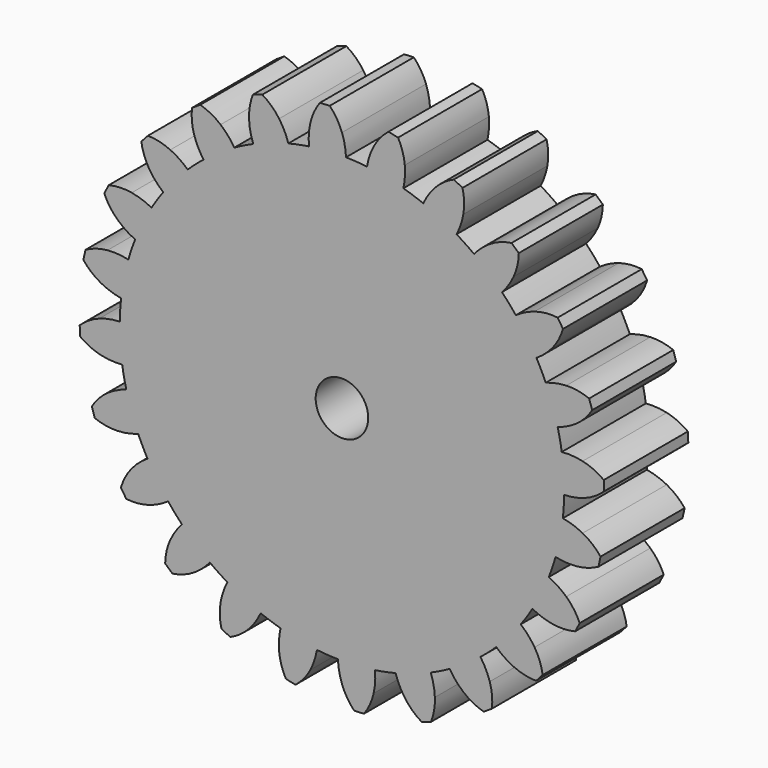
from build123d import *

# Parameters (mm, degrees)
F0_R     = 6.35
F1_DEPTH = 25.4


with BuildPart() as f1:
    # F0 (on Front) → F1 (new body)
    with BuildSketch(Plane.XZ):
        with BuildLine():
            ThreePointArc((53.712184, -0.973198), (53.718796, -0.486619), (53.721, 0))
            ThreePointArc((53.721, 0), (53.571954, 3.998954), (53.125641, 7.975719))
            ThreePointArc((53.125641, 7.975719), (52.688766, 10.480447), (52.133868, 12.961699))
            ThreePointArc((52.133868, 12.961699), (50.870033, 17.26805), (49.251161, 21.45388))
            ThreePointArc((49.251161, 21.45388), (48.180901, 23.760191), (47.002715, 26.013278))
            ThreePointArc((47.002715, 26.013278), (44.667379, 29.845788), (42.020295, 33.469996))
            ThreePointArc((42.020295, 33.469996), (40.389586, 35.420717), (38.668404, 37.292095))
            ThreePointArc((38.668404, 37.292095), (35.420717, 40.389586), (31.925816, 43.205186))
            ThreePointArc((31.925816, 43.205186), (29.845788, 44.667379), (27.698906, 46.029517))
            ThreePointArc((27.698906, 46.029517), (23.760191, 48.180901), (19.655645, 49.996014))
            ThreePointArc((19.655645, 49.996014), (17.26805, 50.870033), (14.841773, 51.630104))
            ThreePointArc((14.841773, 51.630104), (10.480447, 52.688766), (6.045975, 53.379697))
            ThreePointArc((6.045975, 53.379697), (3.513522, 53.605979), (0.973198, 53.712184))
            ThreePointArc((0.973198, 53.712184), (-3.513522, 53.605979), (-7.975719, 53.125641))
            ThreePointArc((-7.975719, 53.125641), (-10.480447, 52.688766), (-12.961699, 52.133868))
            ThreePointArc((-12.961699, 52.133868), (-17.26805, 50.870033), (-21.45388, 49.251161))
            ThreePointArc((-21.45388, 49.251161), (-23.760191, 48.180901), (-26.013278, 47.002715))
            ThreePointArc((-26.013278, 47.002715), (-29.845788, 44.667379), (-33.469996, 42.020295))
            ThreePointArc((-33.469996, 42.020295), (-35.420717, 40.389586), (-37.292095, 38.668404))
            ThreePointArc((-37.292095, 38.668404), (-40.389586, 35.420717), (-43.205186, 31.925816))
            ThreePointArc((-43.205186, 31.925816), (-44.667379, 29.845788), (-46.029517, 27.698906))
            ThreePointArc((-46.029517, 27.698906), (-48.180901, 23.760191), (-49.996014, 19.655645))
            ThreePointArc((-49.996014, 19.655645), (-50.870033, 17.26805), (-51.630104, 14.841773))
            ThreePointArc((-51.630104, 14.841773), (-52.688766, 10.480447), (-53.379697, 6.045975))
            ThreePointArc((-53.379697, 6.045975), (-53.605979, 3.513522), (-53.712184, 0.973198))
            ThreePointArc((-53.712184, 0.973198), (-53.605979, -3.513522), (-53.125641, -7.975719))
            ThreePointArc((-53.125641, -7.975719), (-52.688766, -10.480447), (-52.133868, -12.961699))
            ThreePointArc((-52.133868, -12.961699), (-50.870033, -17.26805), (-49.251161, -21.45388))
            ThreePointArc((-49.251161, -21.45388), (-48.180901, -23.760191), (-47.002715, -26.013278))
            ThreePointArc((-47.002715, -26.013278), (-44.667379, -29.845788), (-42.020295, -33.469996))
            ThreePointArc((-42.020295, -33.469996), (-40.389586, -35.420717), (-38.668404, -37.292095))
            ThreePointArc((-38.668404, -37.292095), (-35.420717, -40.389586), (-31.925816, -43.205186))
            ThreePointArc((-31.925816, -43.205186), (-29.845788, -44.667379), (-27.698906, -46.029517))
            ThreePointArc((-27.698906, -46.029517), (-23.760191, -48.180901), (-19.655645, -49.996014))
            ThreePointArc((-19.655645, -49.996014), (-17.26805, -50.870033), (-14.841773, -51.630104))
            ThreePointArc((-14.841773, -51.630104), (-10.480447, -52.688766), (-6.045975, -53.379697))
            ThreePointArc((-6.045975, -53.379697), (-3.513522, -53.605979), (-0.973198, -53.712184))
            ThreePointArc((-0.973198, -53.712184), (3.513522, -53.605979), (7.975719, -53.125641))
            ThreePointArc((7.975719, -53.125641), (10.480447, -52.688766), (12.961699, -52.133868))
            ThreePointArc((12.961699, -52.133868), (17.26805, -50.870033), (21.45388, -49.251161))
            ThreePointArc((21.45388, -49.251161), (23.760191, -48.180901), (26.013278, -47.002715))
            ThreePointArc((26.013278, -47.002715), (29.845788, -44.667379), (33.469996, -42.020295))
            ThreePointArc((33.469996, -42.020295), (35.420717, -40.389586), (37.292095, -38.668404))
            ThreePointArc((37.292095, -38.668404), (40.389586, -35.420717), (43.205186, -31.925816))
            ThreePointArc((43.205186, -31.925816), (44.667379, -29.845788), (46.029517, -27.698906))
            ThreePointArc((46.029517, -27.698906), (48.180901, -23.760191), (49.996014, -19.655645))
            ThreePointArc((49.996014, -19.655645), (50.870033, -17.26805), (51.630104, -14.841773))
            ThreePointArc((51.630104, -14.841773), (52.688766, -10.480447), (53.379697, -6.045975))
            ThreePointArc((53.379697, -6.045975), (53.605979, -3.513522), (53.712184, -0.973198))
        make_face()
        Circle(F0_R, mode=Mode.SUBTRACT)
        with BuildLine():
            ThreePointArc((-7.975719, 53.125641), (-3.513522, 53.605979), (0.973198, 53.712184))
            ThreePointArc((0.973198, 53.712184), (0.683255, 56.231664), (0, 58.674))
            ThreePointArc((0, 58.674), (-1.231154, 61.186867), (-2.95329, 63.392425))
            ThreePointArc((-2.95329, 63.392425), (-4.134489, 63.336044), (-5.315565, 63.277127))
            ThreePointArc((-5.315565, 63.277127), (-6.755106, 60.847612), (-7.658494, 58.172036))
            ThreePointArc((-7.658494, 58.172036), (-8.017115, 55.661411), (-7.975719, 53.125641))
        make_face()
        with BuildLine():
            ThreePointArc((-21.45388, 49.251161), (-17.26805, 50.870033), (-12.961699, 52.133868))
            ThreePointArc((-12.961699, 52.133868), (-13.893852, 54.492456), (-15.185949, 56.674732))
            ThreePointArc((-15.185949, 56.674732), (-17.025529, 58.783329), (-19.259826, 60.468013))
            ThreePointArc((-19.259826, 60.468013), (-20.386184, 60.107836), (-21.511767, 59.745242))
            ThreePointArc((-21.511767, 59.745242), (-22.273452, 57.02593), (-22.453568, 54.207708))
            ThreePointArc((-22.453568, 54.207708), (-22.150172, 51.689813), (-21.45388, 49.251161))
        make_face()
        with BuildLine():
            ThreePointArc((-33.469996, 42.020295), (-29.845788, 44.667379), (-26.013278, 47.002715))
            ThreePointArc((-26.013278, 47.002715), (-27.524115, 49.039677), (-29.337, 50.813175))
            ThreePointArc((-29.337, 50.813175), (-31.659644, 52.373805), (-34.253836, 53.422806))
            ThreePointArc((-34.253836, 53.422806), (-35.248594, 52.783378), (-36.241977, 52.141817))
            ThreePointArc((-36.241977, 52.141817), (-36.273899, 49.318025), (-35.718468, 46.549214))
            ThreePointArc((-35.718468, 46.549214), (-34.773731, 44.195639), (-33.469996, 42.020295))
        make_face()
        with BuildLine():
            ThreePointArc((-43.205186, 31.925816), (-40.389586, 35.420717), (-37.292095, 38.668404))
            ThreePointArc((-37.292095, 38.668404), (-39.278656, 40.244925), (-41.488783, 41.488783))
            ThreePointArc((-41.488783, 41.488783), (-44.136206, 42.395092), (-46.913505, 42.736923))
            ThreePointArc((-46.913505, 42.736923), (-47.708871, 41.861821), (-48.502357, 40.985014))
            ThreePointArc((-48.502357, 40.985014), (-47.80234, 38.249178), (-46.549214, 35.718468))
            ThreePointArc((-46.549214, 35.718468), (-45.027518, 33.689605), (-43.205186, 31.925816))
        make_face()
        with BuildLine():
            ThreePointArc((-49.996014, 19.655645), (-48.180901, 23.760191), (-46.029517, 27.698906))
            ThreePointArc((-46.029517, 27.698906), (-48.356422, 28.707548), (-50.813175, 29.337))
            ThreePointArc((-50.813175, 29.337), (-53.604958, 29.527223), (-56.376096, 29.138589))
            ThreePointArc((-56.376096, 29.138589), (-56.917867, 28.087449), (-57.457382, 27.035149))
            ThreePointArc((-57.457382, 27.035149), (-56.073131, 24.573713), (-54.207708, 22.453568))
            ThreePointArc((-54.207708, 22.453568), (-52.212754, 20.887681), (-49.996014, 19.655645))
        make_face()
        with BuildLine():
            ThreePointArc((-53.379697, 6.045975), (-52.688766, 10.480447), (-51.630104, 14.841773))
            ThreePointArc((-51.630104, 14.841773), (-54.138777, 15.213799), (-56.674732, 15.185949))
            ThreePointArc((-56.674732, 15.185949), (-59.420621, 14.647124), (-61.996748, 13.554508))
            ThreePointArc((-61.996748, 13.554508), (-62.248005, 12.398965), (-62.49678, 11.242884))
            ThreePointArc((-62.49678, 11.242884), (-60.52263, 9.22359), (-58.172036, 7.658494))
            ThreePointArc((-58.172036, 7.658494), (-55.839777, 6.662295), (-53.379697, 6.045975))
        make_face()
        with BuildLine():
            ThreePointArc((-53.125641, -7.975719), (-53.605979, -3.513522), (-53.712184, 0.973198))
            ThreePointArc((-53.712184, 0.973198), (-56.231664, 0.683255), (-58.674, 0))
            ThreePointArc((-58.674, 0), (-61.186867, -1.231154), (-63.392425, -2.95329))
            ThreePointArc((-63.392425, -2.95329), (-63.336044, -4.134489), (-63.277127, -5.315565))
            ThreePointArc((-63.277127, -5.315565), (-60.847612, -6.755106), (-58.172036, -7.658494))
            ThreePointArc((-58.172036, -7.658494), (-55.661411, -8.017115), (-53.125641, -7.975719))
        make_face()
        with BuildLine():
            ThreePointArc((-54.207708, -22.453568), (-51.689813, -22.150172), (-49.251161, -21.45388))
            ThreePointArc((-49.251161, -21.45388), (-50.870033, -17.26805), (-52.133868, -12.961699))
            ThreePointArc((-52.133868, -12.961699), (-54.492456, -13.893852), (-56.674732, -15.185949))
            ThreePointArc((-56.674732, -15.185949), (-58.783329, -17.025529), (-60.468013, -19.259826))
            ThreePointArc((-60.468013, -19.259826), (-60.107836, -20.386184), (-59.745242, -21.511767))
            ThreePointArc((-59.745242, -21.511767), (-57.02593, -22.273452), (-54.207708, -22.453568))
        make_face()
        with BuildLine():
            ThreePointArc((-46.549214, -35.718468), (-44.195639, -34.773731), (-42.020295, -33.469996))
            ThreePointArc((-42.020295, -33.469996), (-44.667379, -29.845788), (-47.002715, -26.013278))
            ThreePointArc((-47.002715, -26.013278), (-49.039677, -27.524115), (-50.813175, -29.337))
            ThreePointArc((-50.813175, -29.337), (-52.373805, -31.659644), (-53.422806, -34.253836))
            ThreePointArc((-53.422806, -34.253836), (-52.783378, -35.248594), (-52.141817, -36.241977))
            ThreePointArc((-52.141817, -36.241977), (-49.318025, -36.273899), (-46.549214, -35.718468))
        make_face()
        with BuildLine():
            ThreePointArc((-35.718468, -46.549214), (-33.689605, -45.027518), (-31.925816, -43.205186))
            ThreePointArc((-31.925816, -43.205186), (-35.420717, -40.389586), (-38.668404, -37.292095))
            ThreePointArc((-38.668404, -37.292095), (-40.244925, -39.278656), (-41.488783, -41.488783))
            ThreePointArc((-41.488783, -41.488783), (-42.395092, -44.136206), (-42.736923, -46.913505))
            ThreePointArc((-42.736923, -46.913505), (-41.861821, -47.708871), (-40.985014, -48.502357))
            ThreePointArc((-40.985014, -48.502357), (-38.249178, -47.80234), (-35.718468, -46.549214))
        make_face()
        with BuildLine():
            ThreePointArc((-22.453568, -54.207708), (-20.887681, -52.212754), (-19.655645, -49.996014))
            ThreePointArc((-19.655645, -49.996014), (-23.760191, -48.180901), (-27.698906, -46.029517))
            ThreePointArc((-27.698906, -46.029517), (-28.707548, -48.356422), (-29.337, -50.813175))
            ThreePointArc((-29.337, -50.813175), (-29.527223, -53.604958), (-29.138589, -56.376096))
            ThreePointArc((-29.138589, -56.376096), (-28.087449, -56.917867), (-27.035149, -57.457382))
            ThreePointArc((-27.035149, -57.457382), (-24.573713, -56.073131), (-22.453568, -54.207708))
        make_face()
        with BuildLine():
            ThreePointArc((-7.658494, -58.172036), (-6.662295, -55.839777), (-6.045975, -53.379697))
            ThreePointArc((-6.045975, -53.379697), (-10.480447, -52.688766), (-14.841773, -51.630104))
            ThreePointArc((-14.841773, -51.630104), (-15.213799, -54.138777), (-15.185949, -56.674732))
            ThreePointArc((-15.185949, -56.674732), (-14.647124, -59.420621), (-13.554508, -61.996748))
            ThreePointArc((-13.554508, -61.996748), (-12.398965, -62.248005), (-11.242884, -62.49678))
            ThreePointArc((-11.242884, -62.49678), (-9.22359, -60.52263), (-7.658494, -58.172036))
        make_face()
        with BuildLine():
            ThreePointArc((7.658494, -58.172036), (8.017115, -55.661411), (7.975719, -53.125641))
            ThreePointArc((7.975719, -53.125641), (3.513522, -53.605979), (-0.973198, -53.712184))
            ThreePointArc((-0.973198, -53.712184), (-0.683255, -56.231664), (0, -58.674))
            ThreePointArc((0, -58.674), (1.231154, -61.186867), (2.95329, -63.392425))
            ThreePointArc((2.95329, -63.392425), (4.134489, -63.336044), (5.315565, -63.277127))
            ThreePointArc((5.315565, -63.277127), (6.755106, -60.847612), (7.658494, -58.172036))
        make_face()
        with BuildLine():
            ThreePointArc((22.453568, -54.207708), (22.150172, -51.689813), (21.45388, -49.251161))
            ThreePointArc((21.45388, -49.251161), (17.26805, -50.870033), (12.961699, -52.133868))
            ThreePointArc((12.961699, -52.133868), (13.893852, -54.492456), (15.185949, -56.674732))
            ThreePointArc((15.185949, -56.674732), (17.025529, -58.783329), (19.259826, -60.468013))
            ThreePointArc((19.259826, -60.468013), (20.386184, -60.107836), (21.511767, -59.745242))
            ThreePointArc((21.511767, -59.745242), (22.273452, -57.02593), (22.453568, -54.207708))
        make_face()
        with BuildLine():
            ThreePointArc((35.718468, -46.549214), (34.773731, -44.195639), (33.469996, -42.020295))
            ThreePointArc((33.469996, -42.020295), (29.845788, -44.667379), (26.013278, -47.002715))
            ThreePointArc((26.013278, -47.002715), (27.524115, -49.039677), (29.337, -50.813175))
            ThreePointArc((29.337, -50.813175), (31.659644, -52.373805), (34.253836, -53.422806))
            ThreePointArc((34.253836, -53.422806), (35.248594, -52.783378), (36.241977, -52.141817))
            ThreePointArc((36.241977, -52.141817), (36.273899, -49.318025), (35.718468, -46.549214))
        make_face()
        with BuildLine():
            ThreePointArc((46.549214, -35.718468), (45.027518, -33.689605), (43.205186, -31.925816))
            ThreePointArc((43.205186, -31.925816), (40.389586, -35.420717), (37.292095, -38.668404))
            ThreePointArc((37.292095, -38.668404), (39.278656, -40.244925), (41.488783, -41.488783))
            ThreePointArc((41.488783, -41.488783), (44.136206, -42.395092), (46.913505, -42.736923))
            ThreePointArc((46.913505, -42.736923), (47.708871, -41.861821), (48.502357, -40.985014))
            ThreePointArc((48.502357, -40.985014), (47.80234, -38.249178), (46.549214, -35.718468))
        make_face()
        with BuildLine():
            ThreePointArc((54.207708, -22.453568), (52.212754, -20.887681), (49.996014, -19.655645))
            ThreePointArc((49.996014, -19.655645), (48.180901, -23.760191), (46.029517, -27.698906))
            ThreePointArc((46.029517, -27.698906), (48.356422, -28.707548), (50.813175, -29.337))
            ThreePointArc((50.813175, -29.337), (53.604958, -29.527223), (56.376096, -29.138589))
            ThreePointArc((56.376096, -29.138589), (56.917867, -28.087449), (57.457382, -27.035149))
            ThreePointArc((57.457382, -27.035149), (56.073131, -24.573713), (54.207708, -22.453568))
        make_face()
        with BuildLine():
            ThreePointArc((58.172036, -7.658494), (55.839777, -6.662295), (53.379697, -6.045975))
            ThreePointArc((53.379697, -6.045975), (52.688766, -10.480447), (51.630104, -14.841773))
            ThreePointArc((51.630104, -14.841773), (54.138777, -15.213799), (56.674732, -15.185949))
            ThreePointArc((56.674732, -15.185949), (59.420621, -14.647124), (61.996748, -13.554508))
            ThreePointArc((61.996748, -13.554508), (62.248005, -12.398965), (62.49678, -11.242884))
            ThreePointArc((62.49678, -11.242884), (60.52263, -9.22359), (58.172036, -7.658494))
        make_face()
        with BuildLine():
            ThreePointArc((53.125641, 7.975719), (53.571954, 3.998954), (53.721, 0))
            ThreePointArc((53.721, 0), (53.718796, -0.486619), (53.712184, -0.973198))
            ThreePointArc((53.712184, -0.973198), (56.231664, -0.683255), (58.674, 0))
            ThreePointArc((58.674, 0), (61.186867, 1.231154), (63.392425, 2.95329))
            ThreePointArc((63.392425, 2.95329), (63.336044, 4.134489), (63.277127, 5.315565))
            ThreePointArc((63.277127, 5.315565), (60.847612, 6.755106), (58.172036, 7.658494))
            ThreePointArc((58.172036, 7.658494), (55.661411, 8.017115), (53.125641, 7.975719))
        make_face()
        with BuildLine():
            ThreePointArc((49.251161, 21.45388), (50.870033, 17.26805), (52.133868, 12.961699))
            ThreePointArc((52.133868, 12.961699), (54.492456, 13.893852), (56.674732, 15.185949))
            ThreePointArc((56.674732, 15.185949), (58.783329, 17.025529), (60.468013, 19.259826))
            ThreePointArc((60.468013, 19.259826), (60.107836, 20.386184), (59.745242, 21.511767))
            ThreePointArc((59.745242, 21.511767), (57.02593, 22.273452), (54.207708, 22.453568))
            ThreePointArc((54.207708, 22.453568), (51.689813, 22.150172), (49.251161, 21.45388))
        make_face()
        with BuildLine():
            ThreePointArc((42.020295, 33.469996), (44.667379, 29.845788), (47.002715, 26.013278))
            ThreePointArc((47.002715, 26.013278), (49.039677, 27.524115), (50.813175, 29.337))
            ThreePointArc((50.813175, 29.337), (52.373805, 31.659644), (53.422806, 34.253836))
            ThreePointArc((53.422806, 34.253836), (52.783378, 35.248594), (52.141817, 36.241977))
            ThreePointArc((52.141817, 36.241977), (49.318025, 36.273899), (46.549214, 35.718468))
            ThreePointArc((46.549214, 35.718468), (44.195639, 34.773731), (42.020295, 33.469996))
        make_face()
        with BuildLine():
            ThreePointArc((31.925816, 43.205186), (35.420717, 40.389586), (38.668404, 37.292095))
            ThreePointArc((38.668404, 37.292095), (40.244925, 39.278656), (41.488783, 41.488783))
            ThreePointArc((41.488783, 41.488783), (42.395092, 44.136206), (42.736923, 46.913505))
            ThreePointArc((42.736923, 46.913505), (41.861821, 47.708871), (40.985014, 48.502357))
            ThreePointArc((40.985014, 48.502357), (38.249178, 47.80234), (35.718468, 46.549214))
            ThreePointArc((35.718468, 46.549214), (33.689605, 45.027518), (31.925816, 43.205186))
        make_face()
        with BuildLine():
            ThreePointArc((19.655645, 49.996014), (23.760191, 48.180901), (27.698906, 46.029517))
            ThreePointArc((27.698906, 46.029517), (28.707548, 48.356422), (29.337, 50.813175))
            ThreePointArc((29.337, 50.813175), (29.527223, 53.604958), (29.138589, 56.376096))
            ThreePointArc((29.138589, 56.376096), (28.087449, 56.917867), (27.035149, 57.457382))
            ThreePointArc((27.035149, 57.457382), (24.573713, 56.073131), (22.453568, 54.207708))
            ThreePointArc((22.453568, 54.207708), (20.887681, 52.212754), (19.655645, 49.996014))
        make_face()
        with BuildLine():
            ThreePointArc((6.045975, 53.379697), (10.480447, 52.688766), (14.841773, 51.630104))
            ThreePointArc((14.841773, 51.630104), (15.213799, 54.138777), (15.185949, 56.674732))
            ThreePointArc((15.185949, 56.674732), (14.647124, 59.420621), (13.554508, 61.996748))
            ThreePointArc((13.554508, 61.996748), (12.398965, 62.248005), (11.242884, 62.49678))
            ThreePointArc((11.242884, 62.49678), (9.22359, 60.52263), (7.658494, 58.172036))
            ThreePointArc((7.658494, 58.172036), (6.662295, 55.839777), (6.045975, 53.379697))
        make_face()
    extrude(amount=F1_DEPTH)


solid = f1.part
